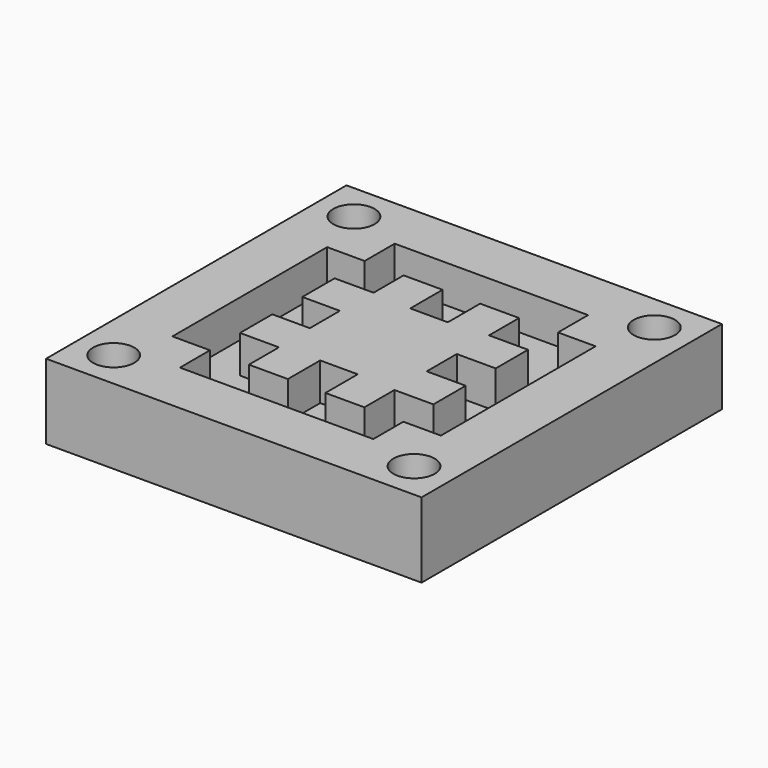
from build123d import *

# Parameters (mm, degrees)
F0_W     = 10
F0_H     = 10
F0_R     = 0.55
F1_DEPTH = 2
F2_DEPTH = 1


with BuildPart() as f1:
    # F0 (on Top) → F1 (new body)
    with BuildSketch(Plane.XY):
        Rectangle(F0_W, F0_H)
        with Locations((-4, -4)):
            Circle(F0_R, mode=Mode.SUBTRACT)
        with Locations((4, -4)):
            Circle(F0_R, mode=Mode.SUBTRACT)
        with Locations((-4, 4)):
            Circle(F0_R, mode=Mode.SUBTRACT)
        Polygon((2.575238, -3.575), (-2.575238, -3.575), (-2.575238, -2.575), (-3.575238, -2.575), (-3.575238, 2.575), (-2.575238, 2.575), (-2.575238, 3.575), (2.575238, 3.575), (2.575238, 2.575), (3.575238, 2.575), (3.575238, -2.575), (2.575238, -2.575), align=None, mode=Mode.SUBTRACT)
        with Locations((4, 4)):
            Circle(F0_R, mode=Mode.SUBTRACT)
        Polygon((-2.575238, -2.575), (-2.575238, -3.575), (2.575238, -3.575), (2.575238, -2.575), (3.575238, -2.575), (3.575238, 2.575), (2.575238, 2.575), (2.575238, 3.575), (-2.575238, 3.575), (-2.575238, 2.575), (-3.575238, 2.575), (-3.575238, -2.575), align=None)
        Polygon((-0.5, -2.575), (-1.537619, -2.575), (-1.537619, -1.575), (-2.575238, -1.575), (-2.575238, -0.5), (-1.575238, -0.5), (-1.575238, 0.5), (-2.575238, 0.5), (-2.575238, 1.575), (-1.537619, 1.575), (-1.537619, 2.575), (-0.5, 2.575), (-0.5, 1.5), (0.5, 1.5), (0.5, 2.575), (1.537619, 2.575), (1.537619, 1.575), (2.575238, 1.575), (2.575238, 0.5), (1.537619, 0.5), (1.537619, -0.5), (2.575238, -0.5), (2.575238, -1.575), (1.537619, -1.575), (1.537619, -2.575), (0.5, -2.575), (0.5, -1.5), (-0.5, -1.5), align=None, mode=Mode.SUBTRACT)
        Polygon((-1.537619, -1.575), (-1.537619, -2.575), (-0.5, -2.575), (-0.5, -1.5), (0.5, -1.5), (0.5, -2.575), (1.537619, -2.575), (1.537619, -1.575), (2.575238, -1.575), (2.575238, -0.5), (1.537619, -0.5), (1.537619, 0.5), (2.575238, 0.5), (2.575238, 1.575), (1.537619, 1.575), (1.537619, 2.575), (0.5, 2.575), (0.5, 1.5), (-0.5, 1.5), (-0.5, 2.575), (-1.537619, 2.575), (-1.537619, 1.575), (-2.575238, 1.575), (-2.575238, 0.5), (-1.575238, 0.5), (-1.575238, -0.5), (-2.575238, -0.5), (-2.575238, -1.575), align=None)
    extrude(amount=-F1_DEPTH)

    # F0 (on Top) → F2 (cut)
    with BuildSketch(Plane.XY):
        Polygon((-2.575238, -2.575), (-2.575238, -3.575), (2.575238, -3.575), (2.575238, -2.575), (3.575238, -2.575), (3.575238, 2.575), (2.575238, 2.575), (2.575238, 3.575), (-2.575238, 3.575), (-2.575238, 2.575), (-3.575238, 2.575), (-3.575238, -2.575), align=None)
        Polygon((-0.5, -2.575), (-1.537619, -2.575), (-1.537619, -1.575), (-2.575238, -1.575), (-2.575238, -0.5), (-1.575238, -0.5), (-1.575238, 0.5), (-2.575238, 0.5), (-2.575238, 1.575), (-1.537619, 1.575), (-1.537619, 2.575), (-0.5, 2.575), (-0.5, 1.5), (0.5, 1.5), (0.5, 2.575), (1.537619, 2.575), (1.537619, 1.575), (2.575238, 1.575), (2.575238, 0.5), (1.537619, 0.5), (1.537619, -0.5), (2.575238, -0.5), (2.575238, -1.575), (1.537619, -1.575), (1.537619, -2.575), (0.5, -2.575), (0.5, -1.5), (-0.5, -1.5), align=None, mode=Mode.SUBTRACT)
    extrude(amount=-F2_DEPTH, mode=Mode.SUBTRACT)


solid = f1.part
